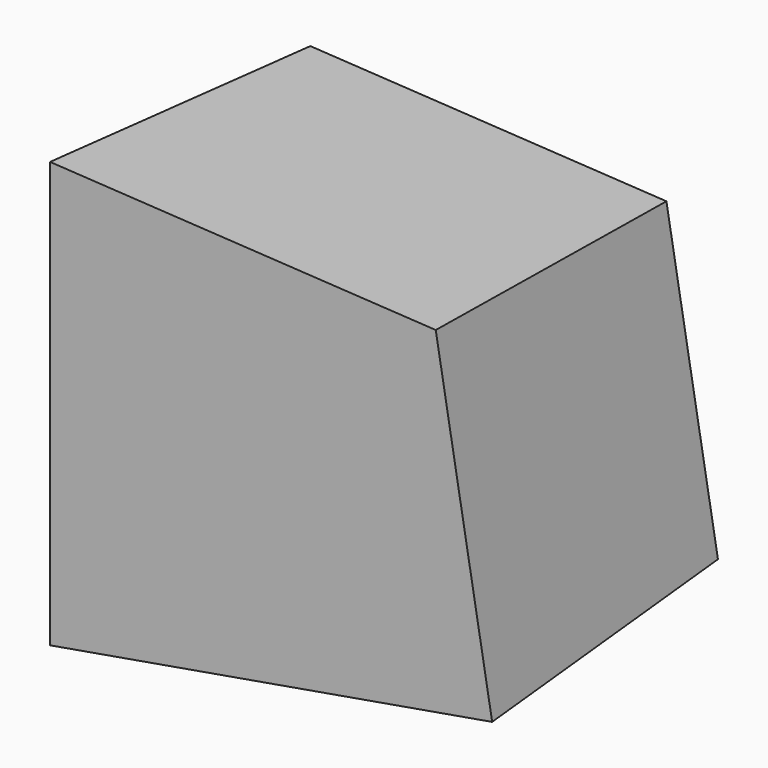
from build123d import *

# Parameters (mm, degrees)
F1_DEPTH = 76.2
F1_TAPER = -3


with BuildPart() as f1:
    # F0 (on Front) → F1 (new body)
    with BuildSketch(Plane.XZ):
        Polygon((76.334849, 0), (63.4782984853, 74.4592919946), (-25.3768395198, 79.6550512314), (-25.3768395198, -17.5620990525), align=None)
    extrude(amount=F1_DEPTH, taper=F1_TAPER)


solid = f1.part
